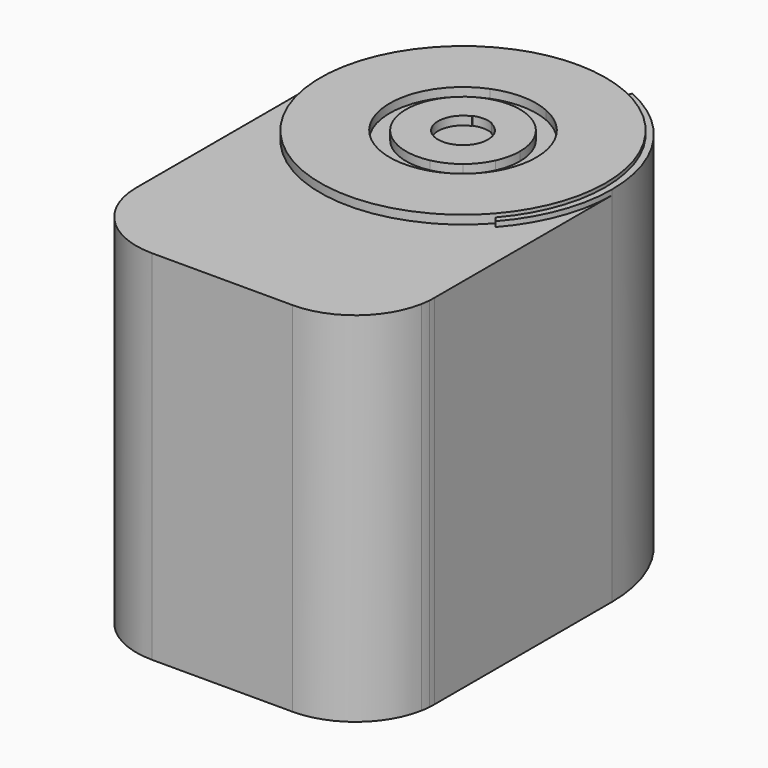
from build123d import *

# Parameters (mm, degrees)
F1_DEPTH = 90.8
F2_DEPTH = 2.2
F3_DEPTH = 98.2
F4_DEPTH = 1.3


with BuildPart() as f1:
    # F0 (on Top) → F1 (new body)
    with BuildSketch(Plane.XY):
        with BuildLine():
            Line((14.5797743075, 70.8647903861), (15.2343665475, 72.3516513901))
            ThreePointArc((15.2343665475, 72.3516513901), (9.7510541905, 74.2776447369), (4.0373458892, 75.3405192466))
            Line((4.0373458892, 75.3405192466), (-3.8493320938, 75.3602360583))
            ThreePointArc((-3.8493320938, 75.3602360583), (-9.0534728718, 74.4567533778), (-14.0809194048, 72.8368325308))
            Line((-14.0809194048, 72.8368325308), (-13.4758886314, 71.3291242006))
            ThreePointArc((-13.4758886314, 71.3291242006), (0.5987840757, 73.9271667972), (14.5797743075, 70.8647903861))
        make_face()
        with BuildLine():
            ThreePointArc((17.1155876174, 5.8674587356), (-32.7813859307, 22.4284787369), (-13.4758886314, 71.3291242006))
            Line((-13.4758886314, 71.3291242006), (-14.0809194048, 72.8368325308))
            ThreePointArc((-14.0809194048, 72.8368325308), (-31.3200658488, 58.9271489213), (-37.8088560378, 37.7478413284))
            ThreePointArc((-37.8088560378, 37.7478413284), (-34.519772796, 22.3240000103), (-25.2247735802, 9.5836727321))
            ThreePointArc((-25.2247735802, 9.5836727321), (-4.3356388326, 0.1883973655), (18.1446666572, 4.5773624836))
            Line((18.1446666572, 4.5773624836), (17.1155876174, 5.8674587356))
        make_face()
        with BuildLine():
            ThreePointArc((28.3074712637, 12.6839895584), (35.3538024878, 24.3456682007), (37.8088560378, 37.7478413284))
            ThreePointArc((37.8088560378, 37.7478413284), (31.6662562242, 58.4059586587), (15.2343665475, 72.3516513901))
            Line((15.2343665475, 72.3516513901), (14.5797743075, 70.8647903861))
            ThreePointArc((14.5797743075, 70.8647903861), (30.3056164149, 57.5183179908), (36.1842802022, 37.7478413284))
            ThreePointArc((36.1842802022, 37.7478413284), (33.8847393486, 25.0542770919), (27.2783922239, 13.9740858104))
            Line((27.2783922239, 13.9740858104), (28.3074712637, 12.6839895584))
        make_face()
        with BuildLine():
            Line((7.4925671367, 54.7666894219), (14.5797743075, 70.8647903861))
            ThreePointArc((14.5797743075, 70.8647903861), (0.5987840757, 73.9271667972), (-13.4758886314, 71.3291242006))
            Line((-13.4758886314, 71.3291242006), (-6.9252786887, 55.0053112418))
            ThreePointArc((-6.9252786887, 55.0053112418), (0.3077160039, 56.3404490957), (7.4925671367, 54.7666894219))
        make_face()
        with BuildLine():
            ThreePointArc((36.1842802022, 37.7478413284), (30.3056164149, 57.5183179908), (14.5797743075, 70.8647903861))
            Line((14.5797743075, 70.8647903861), (7.4925671367, 54.7666894219))
            ThreePointArc((7.4925671367, 54.7666894219), (15.5741001759, 47.9079179245), (18.5951540119, 37.7478413284))
            ThreePointArc((18.5951540119, 37.7478413284), (17.9205267119, 32.7845284132), (15.9455954142, 28.1813508739))
            Line((15.9455954142, 28.1813508739), (27.2783922239, 13.9740858104))
            ThreePointArc((27.2783922239, 13.9740858104), (33.8847393486, 25.0542770919), (36.1842802022, 37.7478413284))
        make_face()
        with BuildLine():
            Line((-6.9252786887, 55.0053112418), (-13.4758886314, 71.3291242006))
            ThreePointArc((-13.4758886314, 71.3291242006), (-32.7813859307, 22.4284787369), (17.1155876174, 5.8674587356))
            Line((17.1155876174, 5.8674587356), (5.7827908077, 20.0747237991))
            ThreePointArc((5.7827908077, 20.0747237991), (-17.4746331696, 31.3904088029), (-6.9252786887, 55.0053112418))
        make_face()
        with BuildLine():
            Line((5.8186014769, 50.9643921908), (7.4925671367, 54.7666894219))
            ThreePointArc((7.4925671367, 54.7666894219), (0.3077160039, 56.3404490957), (-6.9252786887, 55.0053112418))
            Line((-6.9252786887, 55.0053112418), (-5.3780548203, 51.1497018781))
            ThreePointArc((-5.3780548203, 51.1497018781), (0.2389670672, 52.1865474541), (5.8186014769, 50.9643921908))
        make_face()
        with BuildLine():
            Line((-5.3780548203, 51.1497018781), (-6.9252786887, 55.0053112418))
            ThreePointArc((-6.9252786887, 55.0053112418), (-17.4746331696, 31.3904088029), (5.7827908077, 20.0747237991))
            Line((5.7827908077, 20.0747237991), (2.9598041396, 23.6137372075))
            ThreePointArc((2.9598041396, 23.6137372075), (-13.8209739771, 33.5628660392), (-5.3780548203, 51.1497018781))
        make_face()
        with BuildLine():
            ThreePointArc((18.5951540119, 37.7478413284), (15.5741001759, 47.9079179245), (7.4925671367, 54.7666894219))
            Line((7.4925671367, 54.7666894219), (5.8186014769, 50.9643921908))
            ThreePointArc((5.8186014769, 50.9643921908), (12.0945839566, 45.6379857353), (14.4406834965, 37.7478413284))
            ThreePointArc((14.4406834965, 37.7478413284), (14.1073168851, 34.6628858754), (13.1226087461, 31.7203642823))
            Line((13.1226087461, 31.7203642823), (15.9455954142, 28.1813508739))
            ThreePointArc((15.9455954142, 28.1813508739), (17.9205267119, 32.7845284132), (18.5951540119, 37.7478413284))
        make_face()
        with BuildLine():
            ThreePointArc((9.0050181393, 26.4587763469), (11.3722928557, 28.848161837), (13.1226087461, 31.7203642823))
            Line((13.1226087461, 31.7203642823), (5.0814023033, 41.8011548658))
            ThreePointArc((5.0814023033, 41.8011548658), (3.9651803512, 42.8983116741), (2.619052596, 43.6968381765))
            Line((2.619052596, 43.6968381765), (2.5515787198, 43.5435759329))
            ThreePointArc((2.5515787198, 43.5435759329), (5.3037285971, 41.2078350476), (6.3325424253, 37.7478413284))
            ThreePointArc((6.3325424253, 37.7478413284), (5.7055938383, 35.000607716), (3.9488892214, 32.7973496875))
            Line((3.9488892214, 32.7973496875), (9.0050181393, 26.4587763469))
        make_face()
        with BuildLine():
            ThreePointArc((2.9598041396, 23.6137372075), (6.1492117355, 24.6818344832), (9.0050181393, 26.4587763469))
            Line((9.0050181393, 26.4587763469), (3.9488892214, 32.7973496875))
            ThreePointArc((3.9488892214, 32.7973496875), (-5.4718414208, 34.5603587741), (-2.3583897759, 43.6248381153))
            Line((-2.3583897759, 43.6248381153), (-2.4207549691, 43.7802492539))
            ThreePointArc((-2.4207549691, 43.7802492539), (-6.2849849078, 39.405841542), (-5.0814023033, 33.694527791))
            Line((-5.0814023033, 33.694527791), (2.9598041396, 23.6137372075))
        make_face()
        with BuildLine():
            Line((2.5515787198, 43.5435759329), (2.619052596, 43.6968381765))
            ThreePointArc((2.619052596, 43.6968381765), (0.1075631868, 44.2469512798), (-2.4207549691, 43.7802492539))
            Line((-2.4207549691, 43.7802492539), (-2.3583897759, 43.6248381153))
            ThreePointArc((-2.3583897759, 43.6248381153), (0.1047920683, 44.0795166352), (2.5515787198, 43.5435759329))
        make_face()
        with BuildLine():
            Line((2.619052596, 43.6968381765), (5.8186014769, 50.9643921908))
            ThreePointArc((5.8186014769, 50.9643921908), (0.2389670672, 52.1865474541), (-5.3780548203, 51.1497018781))
            Line((-5.3780548203, 51.1497018781), (-2.4207549691, 43.7802492539))
            ThreePointArc((-2.4207549691, 43.7802492539), (0.1075631868, 44.2469512798), (2.619052596, 43.6968381765))
        make_face()
        with BuildLine():
            Line((0, 37.7478413284), (2.5515787198, 43.5435759329))
            ThreePointArc((2.5515787198, 43.5435759329), (0.1047920683, 44.0795166352), (-2.3583897759, 43.6248381153))
            Line((-2.3583897759, 43.6248381153), (0, 37.7478413284))
        make_face()
        with BuildLine():
            ThreePointArc((6.3325424253, 37.7478413284), (5.3037285971, 41.2078350476), (2.5515787198, 43.5435759329))
            Line((2.5515787198, 43.5435759329), (0, 37.7478413284))
            Line((0, 37.7478413284), (3.9488892214, 32.7973496875))
            ThreePointArc((3.9488892214, 32.7973496875), (5.7055938383, 35.000607716), (6.3325424253, 37.7478413284))
        make_face()
        with BuildLine():
            ThreePointArc((-2.3583897759, 43.6248381153), (-5.4718414208, 34.5603587741), (3.9488892214, 32.7973496875))
            Line((3.9488892214, 32.7973496875), (0, 37.7478413284))
            Line((0, 37.7478413284), (-2.3583897759, 43.6248381153))
        make_face()
        with BuildLine():
            ThreePointArc((14.4406834965, 37.7478413284), (12.0945839566, 45.6379857353), (5.8186014769, 50.9643921908))
            Line((5.8186014769, 50.9643921908), (2.619052596, 43.6968381765))
            ThreePointArc((2.619052596, 43.6968381765), (3.9651803512, 42.8983116741), (5.0814023033, 41.8011548658))
            Line((5.0814023033, 41.8011548658), (13.1226087461, 31.7203642823))
            ThreePointArc((13.1226087461, 31.7203642823), (14.1073168851, 34.6628858754), (14.4406834965, 37.7478413284))
        make_face()
        with BuildLine():
            Line((-2.4207549691, 43.7802492539), (-5.3780548203, 51.1497018781))
            ThreePointArc((-5.3780548203, 51.1497018781), (-13.8209739771, 33.5628660392), (2.9598041396, 23.6137372075))
            Line((2.9598041396, 23.6137372075), (-5.0814023033, 33.694527791))
            ThreePointArc((-5.0814023033, 33.694527791), (-6.2849849078, 39.405841542), (-2.4207549691, 43.7802492539))
        make_face()
        with BuildLine():
            ThreePointArc((11.5956906903, 23.2110015706), (13.9930948371, 25.5014929091), (15.9455954142, 28.1813508739))
            Line((15.9455954142, 28.1813508739), (13.1226087461, 31.7203642823))
            ThreePointArc((13.1226087461, 31.7203642823), (11.3722928557, 28.848161837), (9.0050181393, 26.4587763469))
            Line((9.0050181393, 26.4587763469), (11.5956906903, 23.2110015706))
        make_face()
        with BuildLine():
            ThreePointArc((22.564035813, 9.4606282882), (25.0231839072, 11.6108483703), (27.2783922239, 13.9740858104))
            Line((27.2783922239, 13.9740858104), (15.9455954142, 28.1813508739))
            ThreePointArc((15.9455954142, 28.1813508739), (13.9930948371, 25.5014929091), (11.5956906903, 23.2110015706))
            Line((11.5956906903, 23.2110015706), (22.564035813, 9.4606282882))
        make_face()
        with BuildLine():
            ThreePointArc((17.1155876174, 5.8674587356), (19.9209900797, 7.5409499293), (22.564035813, 9.4606282882))
            Line((22.564035813, 9.4606282882), (11.5956906903, 23.2110015706))
            ThreePointArc((11.5956906903, 23.2110015706), (8.8296072596, 21.3827019043), (5.7827908077, 20.0747237991))
            Line((5.7827908077, 20.0747237991), (17.1155876174, 5.8674587356))
        make_face()
        with BuildLine():
            ThreePointArc((5.7827908077, 20.0747237991), (8.8296072596, 21.3827019043), (11.5956906903, 23.2110015706))
            Line((11.5956906903, 23.2110015706), (9.0050181393, 26.4587763469))
            ThreePointArc((9.0050181393, 26.4587763469), (6.1492117355, 24.6818344832), (2.9598041396, 23.6137372075))
            Line((2.9598041396, 23.6137372075), (5.7827908077, 20.0747237991))
        make_face()
        with BuildLine():
            ThreePointArc((25.2247735802, 9.5836727321), (26.8109735111, 11.0892349455), (28.3074712637, 12.6839895584))
            Line((28.3074712637, 12.6839895584), (27.2783922239, 13.9740858104))
            ThreePointArc((27.2783922239, 13.9740858104), (25.0231839072, 11.6108483703), (22.564035813, 9.4606282882))
            Line((22.564035813, 9.4606282882), (23.5770996941, 8.1906093047))
            ThreePointArc((23.5770996941, 8.1906093047), (24.4108759613, 8.8753850821), (25.2247735802, 9.5836727321))
        make_face()
        with BuildLine():
            ThreePointArc((18.1446666572, 4.5773624836), (20.9389669042, 6.266588814), (23.5770996941, 8.1906093047))
            Line((23.5770996941, 8.1906093047), (22.564035813, 9.4606282882))
            ThreePointArc((22.564035813, 9.4606282882), (19.9209900797, 7.5409499293), (17.1155876174, 5.8674587356))
            Line((17.1155876174, 5.8674587356), (18.1446666572, 4.5773624836))
        make_face()
        with BuildLine():
            Line((25.9509916616, 9.5836727321), (25.2247735802, 9.5836727321))
            ThreePointArc((25.2247735802, 9.5836727321), (24.4108759613, 8.8753850821), (23.5770996941, 8.1906093047))
            Line((23.5770996941, 8.1906093047), (31.9509916616, -2.3072496786))
            Line((31.9509916616, -2.3072496786), (31.9509916616, 3.5836727321))
            ThreePointArc((31.9509916616, 3.5836727321), (30.1936323487, 7.8263134192), (25.9509916616, 9.5836727321))
        make_face()
        with BuildLine():
            Line((37.8088560378, 0.7726587349), (28.3074712637, 12.6839895584))
            ThreePointArc((28.3074712637, 12.6839895584), (26.8109735111, 11.0892349455), (25.2247735802, 9.5836727321))
            Line((25.2247735802, 9.5836727321), (25.9509916616, 9.5836727321))
            ThreePointArc((25.9509916616, 9.5836727321), (30.1936323487, 7.8263134192), (31.9509916616, 3.5836727321))
            Line((31.9509916616, 3.5836727321), (31.9509916616, -2.3072496786))
            Line((31.9509916616, -2.3072496786), (37.5423985462, -9.316869724))
            ThreePointArc((37.5423985462, -9.316869724), (37.6746019819, -9.2135722748), (37.8088560378, -9.1129543843))
            Line((37.8088560378, -9.1129543843), (37.8088560378, 0.7726587349))
        make_face()
        with BuildLine():
            Line((31.9509916616, -2.3072496786), (23.5770996941, 8.1906093047))
            ThreePointArc((23.5770996941, 8.1906093047), (20.9389669042, 6.266588814), (18.1446666572, 4.5773624836))
            Line((18.1446666572, 4.5773624836), (31.950989986, -12.7308182222))
            ThreePointArc((31.950989986, -12.7308182222), (31.9509912427, -12.7267248551), (31.9509916616, -12.7226314879))
            Line((31.9509916616, -12.7226314879), (31.9509916616, -2.3072496786))
        make_face()
        with BuildLine():
            ThreePointArc((34.4023500944, -15.8039451307), (35.2356894452, -12.2038174301), (37.5423985462, -9.316869724))
            Line((37.5423985462, -9.316869724), (31.9509916616, -2.3072496786))
            Line((31.9509916616, -2.3072496786), (31.9509916616, -12.7226314879))
            ThreePointArc((31.9509916616, -12.7226314879), (31.9509912427, -12.7267248551), (31.950989986, -12.7308182222))
            Line((31.950989986, -12.7308182222), (34.4023500944, -15.8039451307))
        make_face()
        with BuildLine():
            Line((37.8088560378, -18.5804958642), (37.8088560378, -9.6509119093))
            Line((37.8088560378, -9.6509119093), (37.5423985462, -9.316869724))
            ThreePointArc((37.5423985462, -9.316869724), (35.2356894452, -12.2038174301), (34.4023500944, -15.8039451307))
            Line((34.4023500944, -15.8039451307), (37.6630889461, -19.8917428692))
            ThreePointArc((37.6630889461, -19.8917428692), (37.7101411831, -19.950037218), (37.7578621419, -20.0077854145))
            ThreePointArc((37.7578621419, -20.0077854145), (37.7961034982, -19.2945959688), (37.8088560378, -18.5804958642))
        make_face()
        with BuildLine():
            Line((37.8088560378, -9.6509119093), (37.8088560378, -9.1129543843))
            ThreePointArc((37.8088560378, -9.1129543843), (37.6746019819, -9.2135722748), (37.5423985462, -9.316869724))
            Line((37.5423985462, -9.316869724), (37.8088560378, -9.6509119093))
        make_face()
        with BuildLine():
            Line((37.6630889461, -19.8917428692), (34.4023500944, -15.8039451307))
            ThreePointArc((34.4023500944, -15.8039451307), (35.1982840172, -19.3947286188), (37.4610329077, -22.294246566))
            ThreePointArc((37.4610329077, -22.294246566), (37.6424235279, -21.1552969472), (37.7578621419, -20.0077854145))
            ThreePointArc((37.7578621419, -20.0077854145), (37.7101411831, -19.950037218), (37.6630889461, -19.8917428692))
        make_face()
        with BuildLine():
            ThreePointArc((37.4610329077, -22.294246566), (35.1982840172, -19.3947286188), (34.4023500944, -15.8039451307))
            Line((34.4023500944, -15.8039451307), (31.950989986, -12.7308182222))
            ThreePointArc((31.950989986, -12.7308182222), (26.0902325414, -26.8676612631), (11.9509916616, -32.7226314879))
            Line((11.9509916616, -32.7226314879), (-11.2525294721, -32.7226314879))
            ThreePointArc((-11.2525294721, -32.7226314879), (-25.3946650958, -26.8647671116), (-31.2525294721, -12.7226314879))
            Line((-31.2525294721, -12.7226314879), (-31.2525294721, 3.5836727321))
            ThreePointArc((-31.2525294721, 3.5836727321), (-29.4951701592, 7.8263134192), (-25.2525294721, 9.5836727321))
            Line((-25.2525294721, 9.5836727321), (-25.2247735802, 9.5836727321))
            ThreePointArc((-25.2247735802, 9.5836727321), (-34.519772796, 22.3240000103), (-37.8088560378, 37.7478413284))
            Line((-37.8088560378, 37.7478413284), (-37.8088560378, -18.5804958642))
            ThreePointArc((-37.8088560378, -18.5804958642), (-31.9509916616, -32.7226314879), (-17.8088560378, -38.5804958642))
            Line((-17.8088560378, -38.5804958642), (17.8088560378, -38.5804958642))
            ThreePointArc((17.8088560378, -38.5804958642), (30.570615046, -33.9797655552), (37.4610329077, -22.294246566))
        make_face()
        with BuildLine():
            Line((31.950989986, -12.7308182222), (18.1446666572, 4.5773624836))
            ThreePointArc((18.1446666572, 4.5773624836), (-4.3356388326, 0.1883973655), (-25.2247735802, 9.5836727321))
            Line((-25.2247735802, 9.5836727321), (-25.2525294721, 9.5836727321))
            ThreePointArc((-25.2525294721, 9.5836727321), (-29.4951701592, 7.8263134192), (-31.2525294721, 3.5836727321))
            Line((-31.2525294721, 3.5836727321), (-31.2525294721, -12.7226314879))
            ThreePointArc((-31.2525294721, -12.7226314879), (-25.3946650958, -26.8647671116), (-11.2525294721, -32.7226314879))
            Line((-11.2525294721, -32.7226314879), (11.9509916616, -32.7226314879))
            ThreePointArc((11.9509916616, -32.7226314879), (26.0902325414, -26.8676612631), (31.950989986, -12.7308182222))
        make_face()
        with BuildLine():
            Line((37.8088560378, 0.7726587349), (37.8088560378, 37.7478413284))
            ThreePointArc((37.8088560378, 37.7478413284), (35.3538024878, 24.3456682007), (28.3074712637, 12.6839895584))
            Line((28.3074712637, 12.6839895584), (37.8088560378, 0.7726587349))
        make_face()
    extrude(amount=-F1_DEPTH)

    # F0 (on Top) → F2 (join)
    with BuildSketch(Plane.XY):
        with BuildLine():
            ThreePointArc((36.1842802022, 37.7478413284), (30.3056164149, 57.5183179908), (14.5797743075, 70.8647903861))
            Line((14.5797743075, 70.8647903861), (7.4925671367, 54.7666894219))
            ThreePointArc((7.4925671367, 54.7666894219), (15.5741001759, 47.9079179245), (18.5951540119, 37.7478413284))
            ThreePointArc((18.5951540119, 37.7478413284), (17.9205267119, 32.7845284132), (15.9455954142, 28.1813508739))
            Line((15.9455954142, 28.1813508739), (27.2783922239, 13.9740858104))
            ThreePointArc((27.2783922239, 13.9740858104), (33.8847393486, 25.0542770919), (36.1842802022, 37.7478413284))
        make_face()
        with BuildLine():
            ThreePointArc((22.564035813, 9.4606282882), (25.0231839072, 11.6108483703), (27.2783922239, 13.9740858104))
            Line((27.2783922239, 13.9740858104), (15.9455954142, 28.1813508739))
            ThreePointArc((15.9455954142, 28.1813508739), (13.9930948371, 25.5014929091), (11.5956906903, 23.2110015706))
            Line((11.5956906903, 23.2110015706), (22.564035813, 9.4606282882))
        make_face()
        with BuildLine():
            ThreePointArc((17.1155876174, 5.8674587356), (19.9209900797, 7.5409499293), (22.564035813, 9.4606282882))
            Line((22.564035813, 9.4606282882), (11.5956906903, 23.2110015706))
            ThreePointArc((11.5956906903, 23.2110015706), (8.8296072596, 21.3827019043), (5.7827908077, 20.0747237991))
            Line((5.7827908077, 20.0747237991), (17.1155876174, 5.8674587356))
        make_face()
        with BuildLine():
            Line((-6.9252786887, 55.0053112418), (-13.4758886314, 71.3291242006))
            ThreePointArc((-13.4758886314, 71.3291242006), (-32.7813859307, 22.4284787369), (17.1155876174, 5.8674587356))
            Line((17.1155876174, 5.8674587356), (5.7827908077, 20.0747237991))
            ThreePointArc((5.7827908077, 20.0747237991), (-17.4746331696, 31.3904088029), (-6.9252786887, 55.0053112418))
        make_face()
        with BuildLine():
            Line((7.4925671367, 54.7666894219), (14.5797743075, 70.8647903861))
            ThreePointArc((14.5797743075, 70.8647903861), (0.5987840757, 73.9271667972), (-13.4758886314, 71.3291242006))
            Line((-13.4758886314, 71.3291242006), (-6.9252786887, 55.0053112418))
            ThreePointArc((-6.9252786887, 55.0053112418), (0.3077160039, 56.3404490957), (7.4925671367, 54.7666894219))
        make_face()
        with BuildLine():
            ThreePointArc((14.4406834965, 37.7478413284), (12.0945839566, 45.6379857353), (5.8186014769, 50.9643921908))
            Line((5.8186014769, 50.9643921908), (2.619052596, 43.6968381765))
            ThreePointArc((2.619052596, 43.6968381765), (3.9651803512, 42.8983116741), (5.0814023033, 41.8011548658))
            Line((5.0814023033, 41.8011548658), (13.1226087461, 31.7203642823))
            ThreePointArc((13.1226087461, 31.7203642823), (14.1073168851, 34.6628858754), (14.4406834965, 37.7478413284))
        make_face()
        with BuildLine():
            ThreePointArc((9.0050181393, 26.4587763469), (11.3722928557, 28.848161837), (13.1226087461, 31.7203642823))
            Line((13.1226087461, 31.7203642823), (5.0814023033, 41.8011548658))
            ThreePointArc((5.0814023033, 41.8011548658), (3.9651803512, 42.8983116741), (2.619052596, 43.6968381765))
            Line((2.619052596, 43.6968381765), (2.5515787198, 43.5435759329))
            ThreePointArc((2.5515787198, 43.5435759329), (5.3037285971, 41.2078350476), (6.3325424253, 37.7478413284))
            ThreePointArc((6.3325424253, 37.7478413284), (5.7055938383, 35.000607716), (3.9488892214, 32.7973496875))
            Line((3.9488892214, 32.7973496875), (9.0050181393, 26.4587763469))
        make_face()
        with BuildLine():
            ThreePointArc((2.9598041396, 23.6137372075), (6.1492117355, 24.6818344832), (9.0050181393, 26.4587763469))
            Line((9.0050181393, 26.4587763469), (3.9488892214, 32.7973496875))
            ThreePointArc((3.9488892214, 32.7973496875), (-5.4718414208, 34.5603587741), (-2.3583897759, 43.6248381153))
            Line((-2.3583897759, 43.6248381153), (-2.4207549691, 43.7802492539))
            ThreePointArc((-2.4207549691, 43.7802492539), (-6.2849849078, 39.405841542), (-5.0814023033, 33.694527791))
            Line((-5.0814023033, 33.694527791), (2.9598041396, 23.6137372075))
        make_face()
        with BuildLine():
            Line((-2.4207549691, 43.7802492539), (-5.3780548203, 51.1497018781))
            ThreePointArc((-5.3780548203, 51.1497018781), (-13.8209739771, 33.5628660392), (2.9598041396, 23.6137372075))
            Line((2.9598041396, 23.6137372075), (-5.0814023033, 33.694527791))
            ThreePointArc((-5.0814023033, 33.694527791), (-6.2849849078, 39.405841542), (-2.4207549691, 43.7802492539))
        make_face()
        with BuildLine():
            Line((2.619052596, 43.6968381765), (5.8186014769, 50.9643921908))
            ThreePointArc((5.8186014769, 50.9643921908), (0.2389670672, 52.1865474541), (-5.3780548203, 51.1497018781))
            Line((-5.3780548203, 51.1497018781), (-2.4207549691, 43.7802492539))
            ThreePointArc((-2.4207549691, 43.7802492539), (0.1075631868, 44.2469512798), (2.619052596, 43.6968381765))
        make_face()
    extrude(amount=F2_DEPTH)

    # F0 (on Top) → F3 (cut)
    with BuildSketch(Plane.XY):
        with BuildLine():
            Line((14.5797743075, 70.8647903861), (15.2343665475, 72.3516513901))
            ThreePointArc((15.2343665475, 72.3516513901), (9.7510541905, 74.2776447369), (4.0373458892, 75.3405192466))
            Line((4.0373458892, 75.3405192466), (-3.8493320938, 75.3602360583))
            ThreePointArc((-3.8493320938, 75.3602360583), (-9.0534728718, 74.4567533778), (-14.0809194048, 72.8368325308))
            Line((-14.0809194048, 72.8368325308), (-13.4758886314, 71.3291242006))
            ThreePointArc((-13.4758886314, 71.3291242006), (0.5987840757, 73.9271667972), (14.5797743075, 70.8647903861))
        make_face()
    extrude(amount=-F3_DEPTH, mode=Mode.SUBTRACT)

    # F0 (on Top) → F4 (join)
    with BuildSketch(Plane.XY):
        with BuildLine():
            ThreePointArc((28.3074712637, 12.6839895584), (35.3538024878, 24.3456682007), (37.8088560378, 37.7478413284))
            ThreePointArc((37.8088560378, 37.7478413284), (31.6662562242, 58.4059586587), (15.2343665475, 72.3516513901))
            Line((15.2343665475, 72.3516513901), (14.5797743075, 70.8647903861))
            ThreePointArc((14.5797743075, 70.8647903861), (30.3056164149, 57.5183179908), (36.1842802022, 37.7478413284))
            ThreePointArc((36.1842802022, 37.7478413284), (33.8847393486, 25.0542770919), (27.2783922239, 13.9740858104))
            Line((27.2783922239, 13.9740858104), (28.3074712637, 12.6839895584))
        make_face()
    extrude(amount=F4_DEPTH)


solid = f1.part
